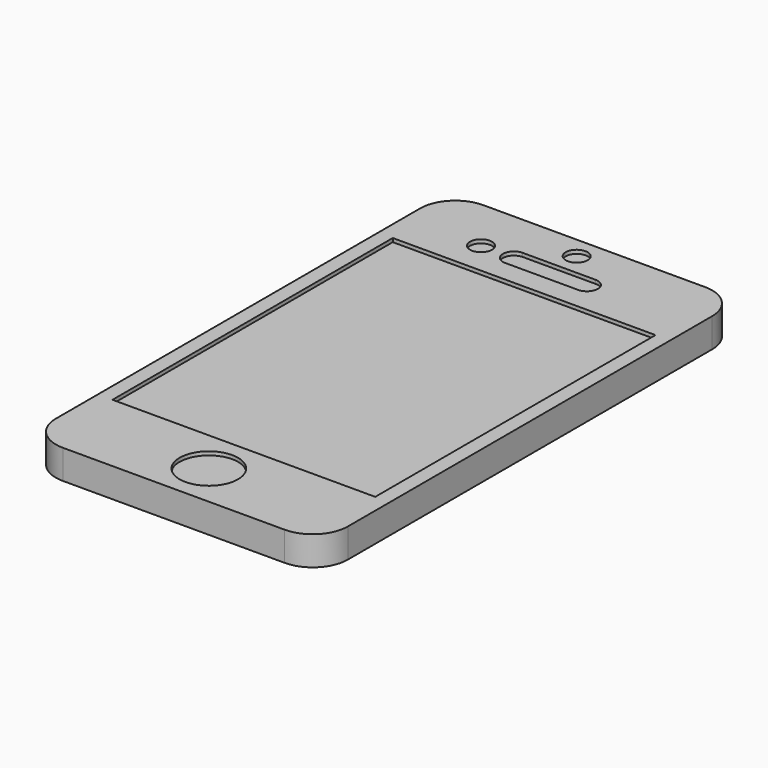
from build123d import *

# Parameters (mm, degrees)
F3_DEPTH = 6.35
F0_R     = 6.35
F0_W     = 57.15
F0_H     = 76.2
F0_R_2   = 2.38125
F1_DEPTH = 0.79375


with BuildPart() as f3:
    # F2 (on Top) → F3 (new body)
    with BuildSketch(Plane.XY):
        with BuildLine():
            ThreePointArc((31.75, 49.53), (29.518154, 54.918154), (24.13, 57.15))
            Line((24.13, 57.15), (-24.13, 57.15))
            ThreePointArc((-24.13, 57.15), (-29.518154, 54.918154), (-31.75, 49.53))
            Line((-31.75, 49.53), (-31.75, -49.53))
            ThreePointArc((-31.75, -49.53), (-29.518154, -54.918154), (-24.13, -57.15))
            Line((-24.13, -57.15), (24.13, -57.15))
            ThreePointArc((24.13, -57.15), (29.518154, -54.918154), (31.75, -49.53))
            Line((31.75, -49.53), (31.75, 49.53))
        make_face()
    extrude(amount=F3_DEPTH)

    # F0 (on face) → F1 (cut)
    with BuildSketch(Plane.XY.offset(6.35)):
        with Locations((0, -47.625)):
            Circle(F0_R)
        with BuildLine():
            ThreePointArc((-7.9375, 47.625), (-10.31875, 45.24375), (-7.9375, 42.8625))
            Line((-7.9375, 42.8625), (7.9375, 42.8625))
            ThreePointArc((7.9375, 42.8625), (10.31875, 45.24375), (7.9375, 47.625))
            Line((7.9375, 47.625), (-7.9375, 47.625))
        make_face()
        Rectangle(F0_W, F0_H)
        with Locations((-15.093792, 45.24375)):
            Circle(F0_R_2)
        with Locations((0, 52.3875)):
            Circle(F0_R_2)
    extrude(amount=-F1_DEPTH, mode=Mode.SUBTRACT)


solid = f3.part
